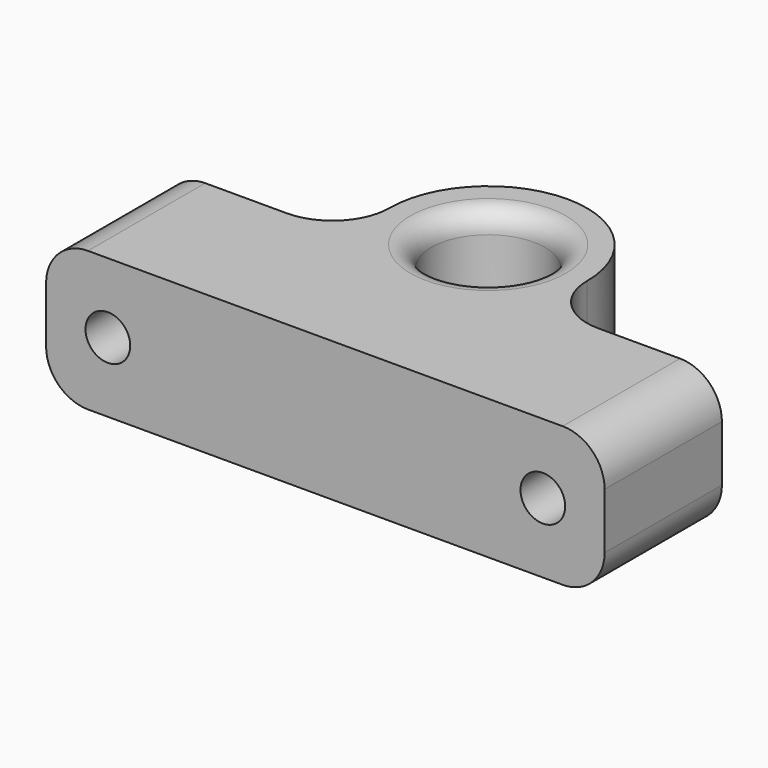
from build123d import *

# Parameters (mm, degrees)
SKETCH_R        = 4.075
PAD_DEPTH       = 10
SKETCH001_R     = 1.6
POCKET_DEPTH    = 10.501
POCKET001_DEPTH = 3
FILLET_R        = 3
FILLET001_R     = 1.5


with BuildPart() as part:
    # Sketch → Pad (new body)
    with BuildSketch(Plane.XY):
        with BuildLine():
            Line((20, -4.075), (20, -14.575))
            Line((20, -14.575), (-20, -14.575))
            Line((-20, -14.575), (-20, -4.075))
            Line((-20, -4.075), (-11.149975, -4.075))
            ThreePointArc((-11.149975, -4.075), (-8.268533, -2.881467), (-7.075, -2.5e-05))
            Line((-7.075, 0), (-7.075, -2.5e-05))
            ThreePointArc((7.075, 0), (0, 7.075), (-7.075, 0))
            Line((7.075, -2.5e-05), (7.075, 0))
            ThreePointArc((7.075, -2.5e-05), (8.268533, -2.881467), (11.149975, -4.075))
            Line((20, -4.075), (11.149975, -4.075))
        make_face()
        Circle(SKETCH_R, mode=Mode.SUBTRACT)
    extrude(amount=PAD_DEPTH)

    # Sketch001 (on Face6 of Pad) → Pocket (cut, through all)
    with BuildSketch(Plane(origin=(0, -4.075, 0), x_dir=(-1, 0, 0), z_dir=(0, 1, 0))):
        with Locations((-15.574988, 5)):
            Circle(SKETCH001_R)
        with Locations((15.574988, 5)):
            Circle(SKETCH001_R)
    extrude(amount=-POCKET_DEPTH, mode=Mode.SUBTRACT)

    # Sketch002 (on Face11 of Pocket) → Pocket001 (cut)
    with BuildSketch(Plane(origin=(0, -4.075, 0), x_dir=(-1, 0, 0), z_dir=(0, 1, 0))):
        Polygon((-15.574988, 8.233162), (-18.374988, 6.616581), (-18.374988, 3.383419), (-15.574988, 1.766838), (-12.774988, 3.383419), (-12.774988, 6.616581), align=None)
        Polygon((15.574988, 8.233162), (12.774988, 6.616581), (12.774988, 3.383419), (15.574988, 1.766838), (18.374988, 3.383419), (18.374988, 6.616581), align=None)
    extrude(amount=-POCKET001_DEPTH, mode=Mode.SUBTRACT)

    # Fillet
    fillet_edges = [part.edges().sort_by_distance(p)[0] for p in [
        (-20, -9.325, 0),
        (-20, -9.325, 10),
        (20, -9.325, 0),
        (20, -9.325, 10),
    ]]
    fillet(fillet_edges, radius=FILLET_R)

    # Fillet001
    fillet001_edges = [part.edges().sort_by_distance(p)[0] for p in [
        (-4.075, 0, 10),
        (-4.075, 0, 0),
    ]]
    fillet(fillet001_edges, radius=FILLET001_R)


solid = part.part
